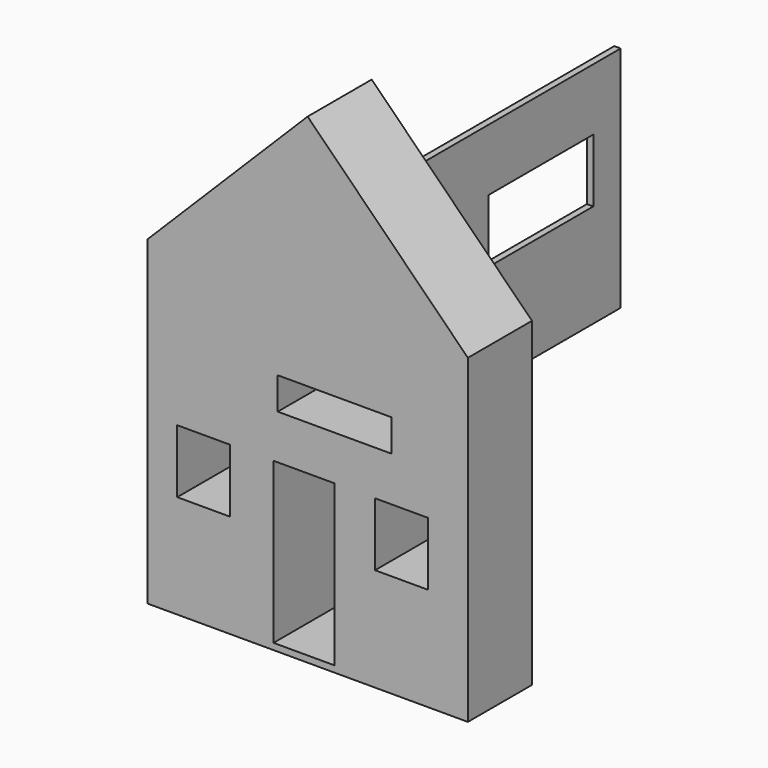
from build123d import *

# Parameters (mm, degrees)
F1_W     = 18.998939544
F1_H     = 50
F1_W_2   = 16.5216550231
F1_H_2   = 19.7602659464
F1_W_3   = 35.4852825403
F1_H_3   = 10
F2_DEPTH = 25
F4_W     = 157.0745110512
F4_H     = 71.2414421141
F4_W_2   = 42.4463823438
F4_H_2   = 19.7416059673
F4_W_3   = 40.770702064
F5_DEPTH = 2


with BuildPart() as f2:
    # F1 (on Front) → F2 (new body)
    with BuildSketch(Plane.XZ):
        Polygon((-100, 100), (-100, 0), (0, 0), (0, 100), (-50, 150), align=None)
        with Locations((-51.136860624, 27)):
            Rectangle(F1_W, F1_H, mode=Mode.SUBTRACT)
        with Locations((-82.4075229466, 42.1198670268)):
            Rectangle(F1_W_2, F1_H_2, mode=Mode.SUBTRACT)
        with Locations((-41.5764786303, 70.9169405699)):
            Rectangle(F1_W_3, F1_H_3, mode=Mode.SUBTRACT)
        with Locations((-20.7105930895, 42.1198670268)):
            Rectangle(F1_W_2, F1_H_2, mode=Mode.SUBTRACT)
    extrude(amount=F2_DEPTH)


with BuildPart() as f5:
    # F4 (on plane+point) → F5 (new body)
    with BuildSketch(Plane.YZ.offset(-100)):
        with Locations((78.5372555256, 43.4525515884)):
            Rectangle(F4_W, F4_H)
        with Locations((52.5832213461, 49.8900320381)):
            Rectangle(F4_W_2, F4_H_2, mode=Mode.SUBTRACT)
        with Locations((126.0166205466, 49.8900320381)):
            Rectangle(F4_W_3, F4_H_2, mode=Mode.SUBTRACT)
    extrude(amount=F5_DEPTH)


solid = Compound([f2.part, f5.part])
